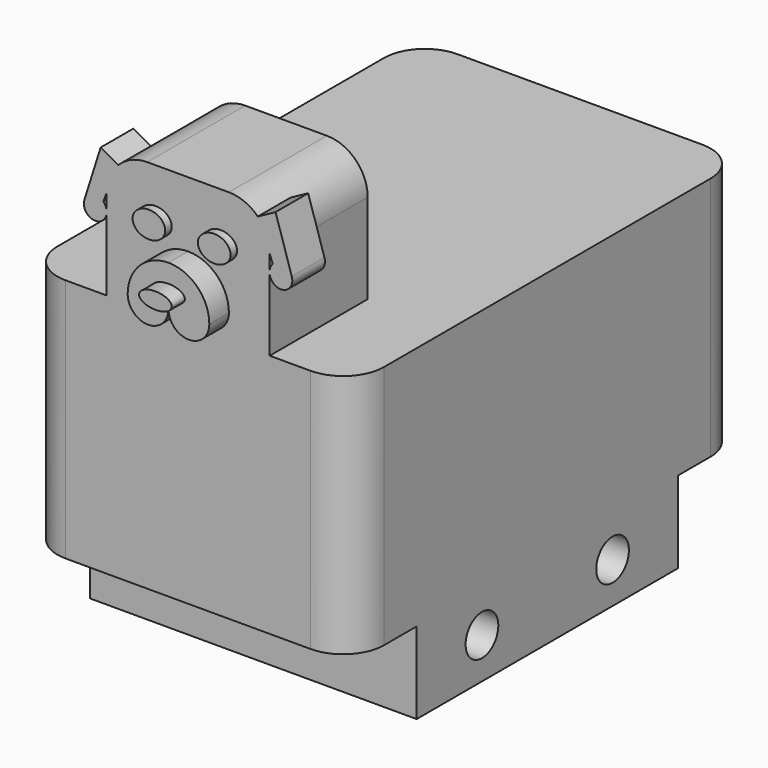
from build123d import *

# Parameters (mm, degrees)
F1_DEPTH  = 38.1
F3_W      = 50.8
F3_H      = 12.7
F3_R      = 3.175
F4_DEPTH  = 50.8
F6_DEPTH  = 19.05
F7_DEPTH  = 3.81
F9_DEPTH  = 2.54
F11_DEPTH = 6.35
F12_DEPTH = 1.27
F13_W     = 6.35
F13_H     = 15.24
F14_DEPTH = 5.08


with BuildPart() as f1:
    # F0 (on Top) → F1 (new body)
    with BuildSketch(Plane.XY):
        with BuildLine():
            Line((0, 69.85), (0, 6.35))
            ThreePointArc((0, 6.35), (1.8598719395, 1.8598719395), (6.35, 0))
            Line((6.35, 0), (44.45, 0))
            ThreePointArc((44.45, 0), (48.9401280605, 1.8598719395), (50.8, 6.35))
            Line((50.8, 6.35), (50.8, 69.85))
            ThreePointArc((50.8, 69.85), (48.9401280605, 74.3401280605), (44.45, 76.2))
            Line((44.45, 76.2), (6.35, 76.2))
            ThreePointArc((6.35, 76.2), (1.8598719395, 74.3401280605), (0, 69.85))
        make_face()
    extrude(amount=F1_DEPTH)

    # F3 (on face) → F4 (join, through all)
    with BuildSketch(Plane(origin=(0, 0, 0), x_dir=(0, -1, 0), z_dir=(-1, 0, 0))):
        with Locations((-38.1, -6.35)):
            Rectangle(F3_W, F3_H)
        with Locations((-50.8, -6.35)):
            Circle(F3_R, mode=Mode.SUBTRACT)
        with Locations((-25.4, -6.35)):
            Circle(F3_R, mode=Mode.SUBTRACT)
    extrude(amount=-F4_DEPTH)

    # F5 (on face) → F6 (join)
    with BuildSketch(Plane.XZ):
        with BuildLine():
            Line((12.7, 52.07), (12.7, 38.1))
            Line((12.7, 38.1), (38.1, 38.1))
            Line((38.1, 38.1), (38.1, 52.07))
            ThreePointArc((38.1, 52.07), (36.2401280605, 56.5601280605), (31.75, 58.42))
            Line((31.75, 58.42), (19.05, 58.42))
            ThreePointArc((19.05, 58.42), (14.5598719395, 56.5601280605), (12.7, 52.07))
        make_face()
        with BuildLine():
            ThreePointArc((19.05, 41.91), (20.9098719395, 46.4001280605), (25.4, 48.26))
            ThreePointArc((25.4, 48.26), (29.8901280605, 46.4001280605), (31.75, 41.91))
            ThreePointArc((31.75, 41.91), (28.575, 38.735), (25.4, 41.91))
            ThreePointArc((25.4, 41.91), (22.225, 38.735), (19.05, 41.91))
        make_face(mode=Mode.SUBTRACT)
        with BuildLine():
            ThreePointArc((31.75, 41.91), (29.8901280605, 46.4001280605), (25.4, 48.26))
            ThreePointArc((25.4, 48.26), (20.9098719395, 46.4001280605), (19.05, 41.91))
            ThreePointArc((19.05, 41.91), (22.225, 38.735), (25.4, 41.91))
            ThreePointArc((25.4, 41.91), (28.575, 38.735), (31.75, 41.91))
        make_face()
    extrude(amount=-F6_DEPTH)

    # F5 (on face) → F7 (join)
    with BuildSketch(Plane.XZ):
        with BuildLine():
            ThreePointArc((31.75, 41.91), (29.8901280605, 46.4001280605), (25.4, 48.26))
            ThreePointArc((25.4, 48.26), (20.9098719395, 46.4001280605), (19.05, 41.91))
            ThreePointArc((19.05, 41.91), (22.225, 38.735), (25.4, 41.91))
            ThreePointArc((25.4, 41.91), (28.575, 38.735), (31.75, 41.91))
        make_face()
    extrude(amount=F7_DEPTH)

    # F8 (on face) → F9 (join)
    with BuildSketch(Plane.XZ.offset(3.81)):
        with BuildLine():
            add(Edge.make_bspline(
                [(27.94, 44.1034744838), (27.94, 46.3031790094), (24.13, 45.2033267466), (20.32, 44.1034744838), (24.13, 43.003622221), (27.94, 41.9037699582), (27.94, 44.1034744838)],
                knots=[0, 0, 0, 2.0943951024, 2.0943951024, 4.1887902048, 4.1887902048, 6.2831853072, 6.2831853072, 6.2831853072], degree=2, weights=[1, 0.5, 1, 0.5, 1, 0.5, 1]))
        make_face()
    extrude(amount=F9_DEPTH)

    # F10 (on face) → F11 (join)
    with BuildSketch(Plane.XZ):
        with BuildLine():
            Line((17.78, 50.8), (22.86, 50.8))
            add(Edge.make_bspline(
                [(22.86, 50.8), (22.86, 52.832), (20.32, 52.832), (17.78, 52.832), (17.78, 50.8)],
                knots=[0, 0, 0, 1.5707963268, 1.5707963268, 3.1415926536, 3.1415926536, 3.1415926536], degree=2, weights=[1, 0.7071067812, 1, 0.7071067812, 1]))
        make_face()
        with BuildLine():
            add(Edge.make_bspline(
                [(17.78, 50.8), (17.78, 48.768), (20.32, 48.768), (22.86, 48.768), (22.86, 50.8)],
                knots=[3.1415926536, 3.1415926536, 3.1415926536, 4.7123889804, 4.7123889804, 6.2831853072, 6.2831853072, 6.2831853072], degree=2, weights=[1, 0.7071067812, 1, 0.7071067812, 1]))
            Line((22.86, 50.8), (17.78, 50.8))
        make_face()
        with BuildLine():
            add(Edge.make_bspline(
                [(27.94, 50.8), (27.94, 48.768), (30.48, 48.768), (33.02, 48.768), (33.02, 50.8)],
                knots=[3.1415926536, 3.1415926536, 3.1415926536, 4.7123889804, 4.7123889804, 6.2831853072, 6.2831853072, 6.2831853072], degree=2, weights=[1, 0.7071067812, 1, 0.7071067812, 1]))
            Line((33.02, 50.8), (27.94, 50.8))
        make_face()
        with BuildLine():
            Line((27.94, 50.8), (33.02, 50.8))
            add(Edge.make_bspline(
                [(33.02, 50.8), (33.02, 52.832), (30.48, 52.832), (27.94, 52.832), (27.94, 50.8)],
                knots=[0, 0, 0, 1.5707963268, 1.5707963268, 3.1415926536, 3.1415926536, 3.1415926536], degree=2, weights=[1, 0.7071067812, 1, 0.7071067812, 1]))
        make_face()
        with BuildLine():
            ThreePointArc((36.2401280605, 56.5601280605), (37.6166350314, 54.5000397955), (38.1, 52.07))
            Line((38.1, 52.07), (38.5869643704, 50.8))
            ThreePointArc((38.5869643704, 50.8), (38.2785524575, 50.3900976738), (38.1, 49.9092059552))
            Line((38.1, 49.9092059552), (38.1, 49.1652853166))
            ThreePointArc((38.1, 49.1652853166), (40.2931830208, 47.8183243314), (41.5339241122, 50.0733004294))
            Line((41.5339241122, 50.0733004294), (39.0068086574, 58.0652721184))
            Line((39.0068086574, 58.0652721184), (36.2401280605, 56.5601280605))
        make_face()
        with BuildLine():
            Line((12.2130356296, 50.8), (12.7, 52.07))
            ThreePointArc((12.7, 52.07), (13.1833649686, 54.5000397955), (14.5598719395, 56.5601280605))
            Line((14.5598719395, 56.5601280605), (11.7931913426, 58.0652721184))
            Line((11.7931913426, 58.0652721184), (9.2660758878, 50.0733004294))
            ThreePointArc((9.2660758878, 50.0733004294), (10.5068169792, 47.8183243314), (12.7, 49.1652853166))
            Line((12.7, 49.1652853166), (12.7, 49.9092059552))
            ThreePointArc((12.7, 49.9092059552), (12.5214475425, 50.3900976738), (12.2130356296, 50.8))
        make_face()
    extrude(amount=-F11_DEPTH)

    # F10 (on face) → F12 (join)
    with BuildSketch(Plane.XZ):
        with BuildLine():
            Line((17.78, 50.8), (22.86, 50.8))
            add(Edge.make_bspline(
                [(22.86, 50.8), (22.86, 52.832), (20.32, 52.832), (17.78, 52.832), (17.78, 50.8)],
                knots=[0, 0, 0, 1.5707963268, 1.5707963268, 3.1415926536, 3.1415926536, 3.1415926536], degree=2, weights=[1, 0.7071067812, 1, 0.7071067812, 1]))
        make_face()
        with BuildLine():
            add(Edge.make_bspline(
                [(17.78, 50.8), (17.78, 48.768), (20.32, 48.768), (22.86, 48.768), (22.86, 50.8)],
                knots=[3.1415926536, 3.1415926536, 3.1415926536, 4.7123889804, 4.7123889804, 6.2831853072, 6.2831853072, 6.2831853072], degree=2, weights=[1, 0.7071067812, 1, 0.7071067812, 1]))
            Line((22.86, 50.8), (17.78, 50.8))
        make_face()
        with BuildLine():
            Line((27.94, 50.8), (33.02, 50.8))
            add(Edge.make_bspline(
                [(33.02, 50.8), (33.02, 52.832), (30.48, 52.832), (27.94, 52.832), (27.94, 50.8)],
                knots=[0, 0, 0, 1.5707963268, 1.5707963268, 3.1415926536, 3.1415926536, 3.1415926536], degree=2, weights=[1, 0.7071067812, 1, 0.7071067812, 1]))
        make_face()
        with BuildLine():
            add(Edge.make_bspline(
                [(27.94, 50.8), (27.94, 48.768), (30.48, 48.768), (33.02, 48.768), (33.02, 50.8)],
                knots=[3.1415926536, 3.1415926536, 3.1415926536, 4.7123889804, 4.7123889804, 6.2831853072, 6.2831853072, 6.2831853072], degree=2, weights=[1, 0.7071067812, 1, 0.7071067812, 1]))
            Line((33.02, 50.8), (27.94, 50.8))
        make_face()
    extrude(amount=F12_DEPTH)

    # F13 (on face) → F14 (join)
    with BuildSketch(Plane(origin=(0, 76.2, 0), x_dir=(-1, 0, 0), z_dir=(0, 1, 0))):
        with Locations((-25.4, 22.86)):
            Rectangle(F13_W, F13_H)
    extrude(amount=F14_DEPTH)


solid = f1.part
